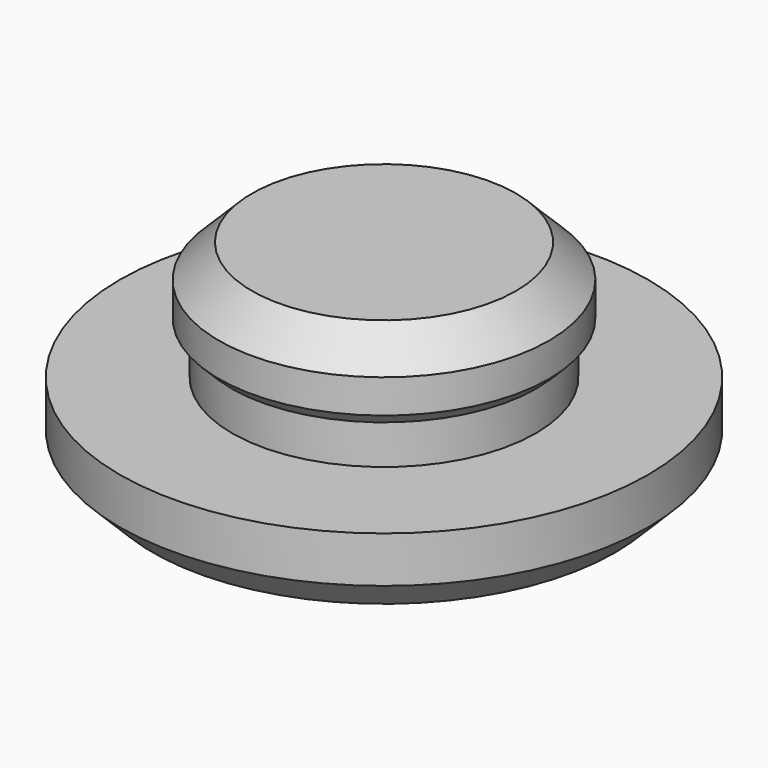
from build123d import *

# Parameters (mm, degrees)
SKETCH_R        = 4
PAD_DEPTH       = 1.2
SKETCH001_R     = 2.3
PAD001_DEPTH    = 1.8
SKETCH002_R     = 2.5
PAD002_DEPTH    = 1.2
CHAMFER_SIZE    = 0.5
CHAMFER001_SIZE = 0.19


with BuildPart() as part:
    # Sketch → Pad (new body)
    with BuildSketch(Plane.XY):
        Circle(SKETCH_R)
    extrude(amount=PAD_DEPTH)

    # Sketch001 → Pad001 (join)
    with BuildSketch(Plane.XY.offset(1.2)):
        Circle(SKETCH001_R)
    extrude(amount=PAD001_DEPTH)

    # Sketch002 → Pad002 (join)
    with BuildSketch(Plane.XY.offset(3)):
        Circle(SKETCH002_R)
    extrude(amount=-PAD002_DEPTH)

    # Chamfer
    chamfer_edges = [part.edges().sort_by_distance(p)[0] for p in [
        (-2.5, 0, 3),
        (-4, 0, 0),
    ]]
    chamfer(chamfer_edges, length=CHAMFER_SIZE)

    # Chamfer001
    chamfer001_edges = [part.edges().sort_by_distance(p)[0] for p in [
        (-2.5, 0, 1.8),
    ]]
    chamfer(chamfer001_edges, length=CHAMFER001_SIZE)


solid = part.part
